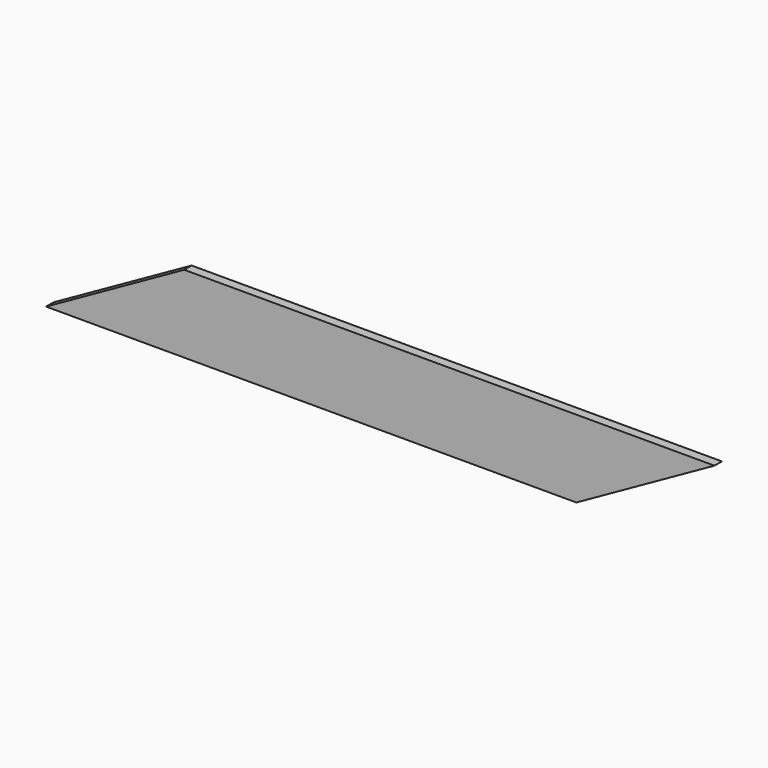
from build123d import *

# Parameters (mm, degrees)
F0_W     = 253.5714307161
F0_H     = 50
F1_DEPTH = 6


with BuildPart() as f1:
    # F0 (on Front) → F1 (new body)
    with BuildSketch(Plane.XZ):
        with Locations((-0.3046447986, -0.1523210667)):
            Rectangle(F0_W, F0_H)
        Polygon((-127.0903601566, -25.1523210667), (-127.0903601566, 24.8476789333), (-216.3760598197, -25.1523210667), align=None)
        Polygon((215.7667811408, 24.8476789333), (126.4810705595, 24.8476789333), (126.4810705595, -25.1523210667), align=None)
    extrude(amount=F1_DEPTH)


solid = f1.part
